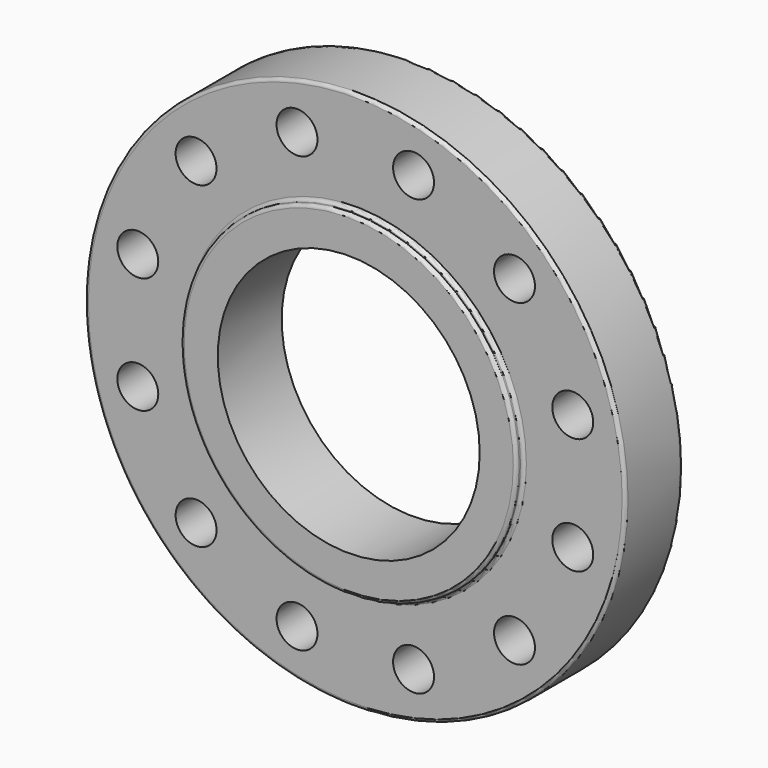
from build123d import *

# Parameters (mm, degrees)
F0_R     = 209.55
F0_R_2   = 15.875
F0_R_3   = 101.6
F1_DEPTH = 55.626
F2_R     = 130.175
F2_R_2   = 101.6
F3_DEPTH = 6.35
F4_R     = 2.54


with BuildPart() as f1:
    # F0 (on Front) → F1 (new body)
    with BuildSketch(Plane.XZ):
        Circle(F0_R)
        with Locations((-123.478522, -123.478522)):
            Circle(F0_R_2, mode=Mode.SUBTRACT)
        with Locations((-45.196276, -168.674797)):
            Circle(F0_R_2, mode=Mode.SUBTRACT)
        with Locations((-168.674797, -45.196276)):
            Circle(F0_R_2, mode=Mode.SUBTRACT)
        with Locations((45.196276, -168.674797)):
            Circle(F0_R_2, mode=Mode.SUBTRACT)
        with Locations((123.478522, -123.478522)):
            Circle(F0_R_2, mode=Mode.SUBTRACT)
        with Locations((168.674797, -45.196276)):
            Circle(F0_R_2, mode=Mode.SUBTRACT)
        with Locations((-168.674797, 45.196276)):
            Circle(F0_R_2, mode=Mode.SUBTRACT)
        with Locations((-123.478522, 123.478522)):
            Circle(F0_R_2, mode=Mode.SUBTRACT)
        with Locations((-45.196276, 168.674797)):
            Circle(F0_R_2, mode=Mode.SUBTRACT)
        Circle(F0_R_3, mode=Mode.SUBTRACT)
        with Locations((168.674797, 45.196276)):
            Circle(F0_R_2, mode=Mode.SUBTRACT)
        with Locations((45.196276, 168.674797)):
            Circle(F0_R_2, mode=Mode.SUBTRACT)
        with Locations((123.478522, 123.478522)):
            Circle(F0_R_2, mode=Mode.SUBTRACT)
    extrude(amount=F1_DEPTH)

    # F2 (on face) → F3 (join)
    with BuildSketch(Plane.XZ.offset(55.626)):
        Circle(F2_R)
        Circle(F2_R_2, mode=Mode.SUBTRACT)
    extrude(amount=F3_DEPTH)

    # F4
    f4_edges = [f1.edges().sort_by_distance(p)[0] for p in [
        (-209.55, -55.626, 0),
        (-209.55, 0, 0),
        (-130.175, -61.976, 0),
        (-130.175, -55.626, 0),
    ]]
    fillet(f4_edges, radius=F4_R)


solid = f1.part
